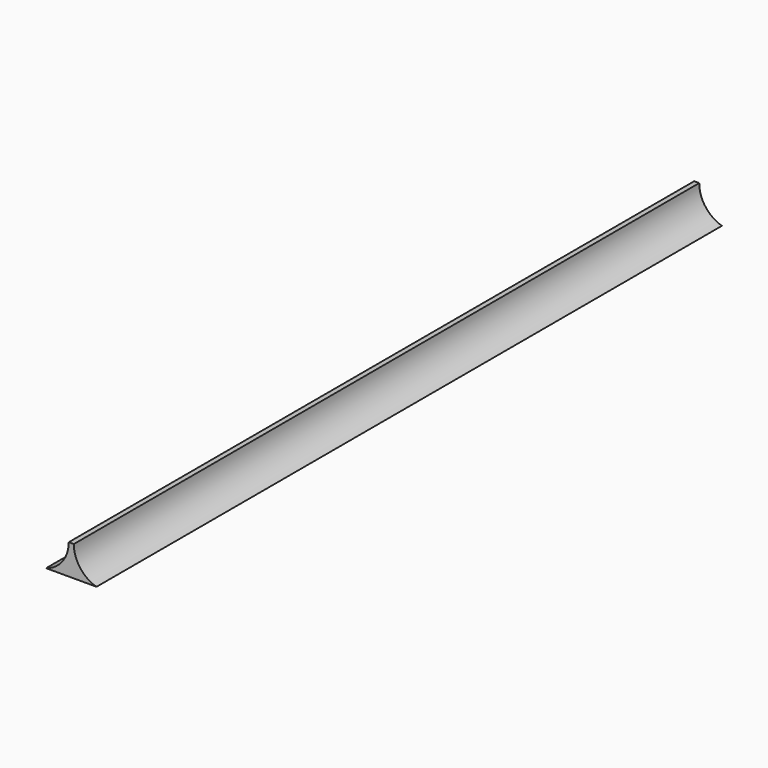
from build123d import *

# Parameters (mm, degrees)
F1_DEPTH = 155


with BuildPart() as f1:
    # F0 (on Front) → F1 (new body)
    with BuildSketch(Plane.XZ):
        with BuildLine():
            ThreePointArc((5, 0), (1.75, 2.25), (0.5, 6))
            Line((0.5, 6), (0, 6))
            Line((0, 6), (-0.5, 6))
            ThreePointArc((-0.5, 6), (-1.75, 2.25), (-5, 0))
            Line((-5, 0), (0, 0))
            Line((0, 0), (5, 0))
        make_face()
    extrude(amount=F1_DEPTH)


solid = f1.part
